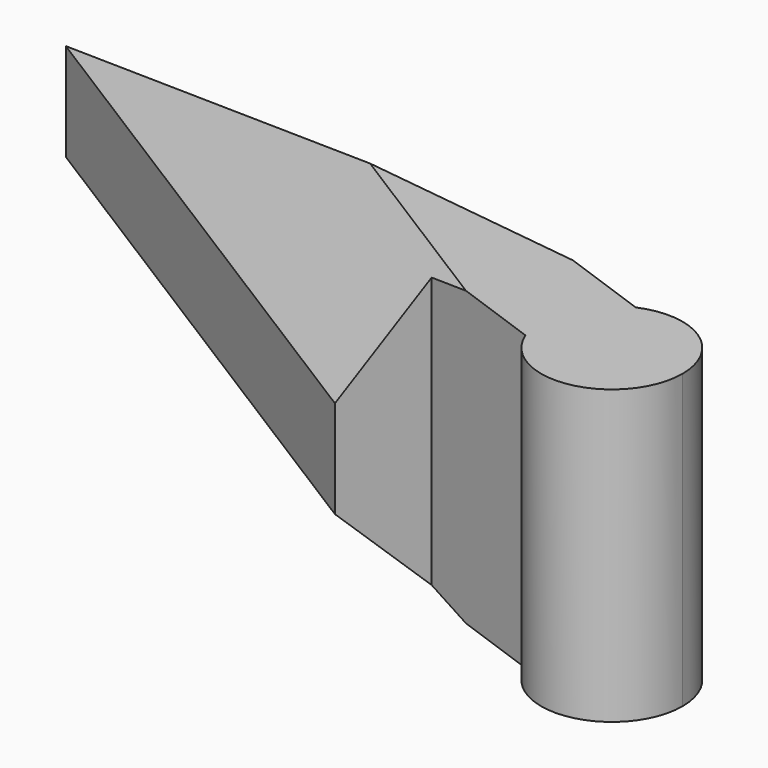
from build123d import *

# Parameters (mm, degrees)
F1_DEPTH = 15
F2_SIZE  = 5


with BuildPart() as f1:
    # F0 (on Top) → F1 (new body)
    with BuildSketch(Plane.XY):
        with BuildLine():
            Line((-186.024674, -9.009846), (-179.286195, -11.425942))
            ThreePointArc((-179.286195, -11.425942), (-179.538284, -10.090694), (-179.280339, -8.756566))
            Line((-179.280339, -8.756566), (-215.305157, 4.16021))
            Line((-215.305157, 4.16021), (-187.557676, -13.285381))
            Line((-187.557676, -13.285381), (-186.024674, -9.009846))
        make_face()
        with BuildLine():
            ThreePointArc((-179.280339, -8.756566), (-178.513831, -7.575145), (-177.354514, -6.775599))
            Line((-177.354514, -6.775599), (-184.327177, -4.275535))
            Line((-184.327177, -4.275535), (-182.794174, 0))
            Line((-182.794174, 0), (-215.305157, 4.16021))
            Line((-215.305157, 4.16021), (-179.280339, -8.756566))
        make_face()
        with BuildLine():
            ThreePointArc((-179.286195, -11.425942), (-175.242569, -13.655259), (-172.297879, -10.098635))
            ThreePointArc((-172.297879, -10.098635), (-173.929905, -7.073238), (-177.354514, -6.775599))
            ThreePointArc((-177.354514, -6.775599), (-178.513831, -7.575145), (-179.280339, -8.756566))
            ThreePointArc((-179.280339, -8.756566), (-179.538284, -10.090694), (-179.286195, -11.425942))
        make_face()
    extrude(amount=F1_DEPTH)

    # F2
    f2_edges = [f1.edges().sort_by_distance(p)[0] for p in [
        (-201.431417, -4.562585, 15),
        (-199.049666, 2.080105, 15),
        (-199.049666, 2.080105, 0),
        (-201.431417, -4.562585, 0),
    ]]
    chamfer(f2_edges, length=F2_SIZE)


solid = f1.part
